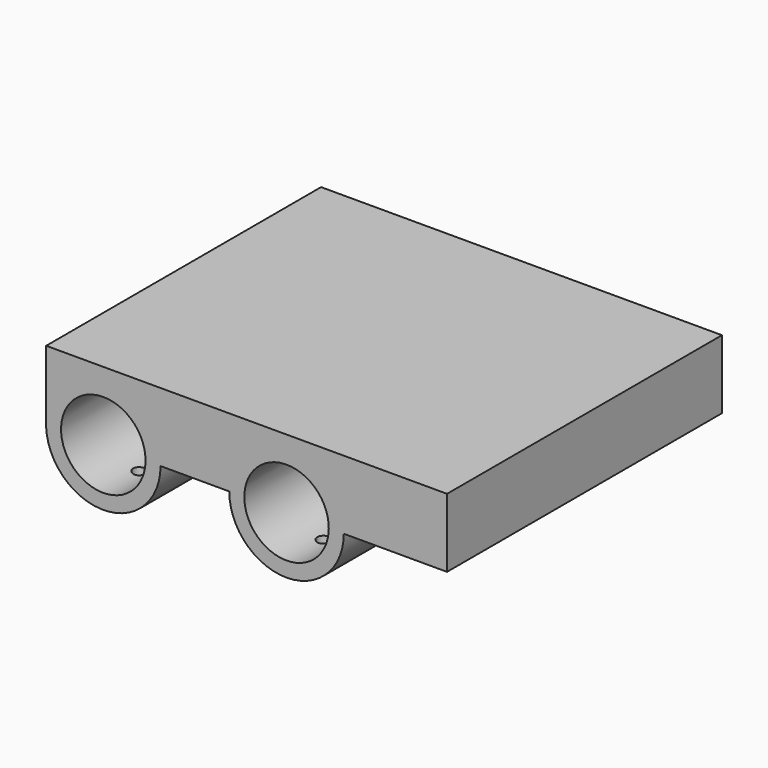
from build123d import *

# Parameters (mm, degrees)
F0_W        = 70
F0_H        = 60
F1_DEPTH    = 12
F3_DEPTH    = 60.001
F2_R        = 10
F2_R_2      = 7.375
F4_DEPTH    = 60
F6_W        = 14
F6_H        = 16.388628301
F7_DEPTH    = 70.001
F10_D       = 2.4
F10_DEPTH   = 10
F10_START   = 0.0740526
F10_START_2 = 0.1005893
F10_TIP     = 0.7210327428


with BuildPart() as f1:
    # F0 (on Top) → F1 (new body)
    with BuildSketch(Plane.XY):
        Rectangle(F0_W, F0_H)
    extrude(amount=F1_DEPTH)

    # F2 (on face) → F3 (cut, through all)
    with BuildSketch(Plane.XZ.offset(30)):
        with BuildLine():
            Line((-32.4059612602, 0), (-17.6559612602, 0))
            ThreePointArc((-17.6559612602, 0), (-25.0309612602, 7.375), (-32.4059612602, 0))
        make_face()
        with BuildLine():
            ThreePointArc((14.3440387398, 0), (6.9690387398, 7.375), (-0.4059612602, 0))
            Line((-0.4059612602, 0), (14.3440387398, 0))
        make_face()
    extrude(amount=-F3_DEPTH, mode=Mode.SUBTRACT)

    # F2 (on face) → F4 (join, through all)
    with BuildSketch(Plane.XZ.offset(30)):
        with Locations((-25.0309612602, 0)):
            Circle(F2_R)
        with Locations((-25.0309612602, 0)):
            Circle(F2_R_2, mode=Mode.SUBTRACT)
        with Locations((6.9690387398, 0)):
            Circle(F2_R)
        with Locations((6.9690387398, 0)):
            Circle(F2_R_2, mode=Mode.SUBTRACT)
    extrude(amount=-F4_DEPTH)

    # F6 (on offset) → F7 (cut, through all)
    with BuildSketch(Plane(origin=(-35, 0, 0), x_dir=(0, -1, 0), z_dir=(-1, 0, 0))):
        with Locations((-7, -8.1943141505)):
            Rectangle(F6_W, F6_H)
        with Locations((7, -8.1943141505)):
            Rectangle(F6_W, F6_H)
    extrude(amount=-F7_DEPTH, mode=Mode.SUBTRACT)

    # F10
    # its depths count from where the whole tool has entered the part; down to there all is cleared
    with Locations(Plane(origin=(0, 0, -10), x_dir=(1, 0, 0), z_dir=(0, 0, -1))):
        with Locations((-25.0456897311, -21.936209172, -F10_START), (7.1838408707, -22.0174100382, -F10_START_2), (7.1838408707, 22.0174100382, -F10_START_2), (-25.0456897311, 21.936209172, -F10_START)):
            Hole(F10_D / 2, depth=F10_DEPTH)
            with Locations((0, 0, -(F10_DEPTH + F10_TIP / 2))):  # 118° drill point
                Cone(0, F10_D / 2, F10_TIP, mode=Mode.SUBTRACT)


solid = f1.part
